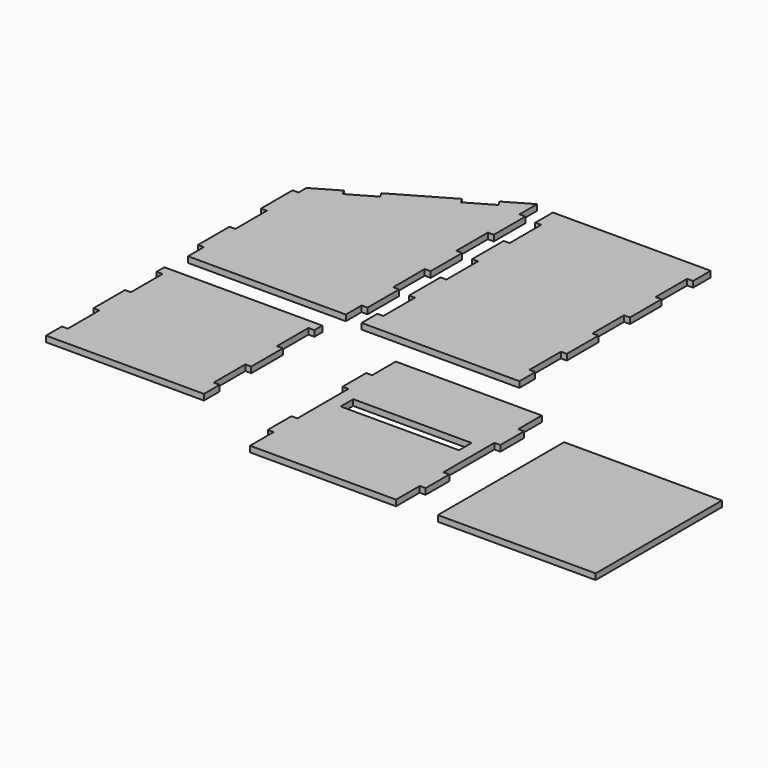
from build123d import *

# Parameters (mm, degrees)
F0_W     = 60
F0_H     = 8
F0_W_2   = 80
F0_H_2   = 80
F1_DEPTH = 3


with BuildPart() as f1:
    # F0 (on Top) → F1 (new body)
    with BuildSketch(Plane.XY):
        Polygon((-131.87333, 82.770537), (-144.863711, 75.270537), (-144.863711, 70.270537), (-147.863711, 70.270537), (-147.863711, 50.270537), (-144.863711, 50.270537), (-144.863711, 30.270537), (-147.863711, 30.270537), (-147.863711, 10.270537), (-144.863711, 10.270537), (-144.863711, 0.270537), (-64.863711, 0.270537), (-64.863711, 10.270537), (-61.863711, 10.270537), (-61.863711, 30.270537), (-64.863711, 30.270537), (-64.863711, 50.270537), (-61.863711, 50.270537), (-61.863711, 70.270537), (-64.863711, 70.270537), (-64.863711, 90.270537), (-61.863711, 90.270537), (-61.863711, 110.270537), (-64.863711, 110.270537), (-64.863711, 121.458559), (-77.854092, 113.958559), (-76.354092, 111.360483), (-89.344473, 103.860483), (-90.844473, 106.458559), (-118.882949, 90.270537), (-117.382949, 87.672461), (-130.37333, 80.172461), align=None)
        Polygon((24.48994, 119.776082), (-55.51006, 119.776082), (-55.51006, 108.58806), (-52.51006, 108.58806), (-52.51006, 88.58806), (-55.51006, 88.58806), (-55.51006, 68.58806), (-52.51006, 68.58806), (-52.51006, 48.58806), (-55.51006, 48.58806), (-55.51006, 28.58806), (-52.51006, 28.58806), (-52.51006, 8.58806), (-55.51006, 8.58806), (-55.51006, -1.41194), (24.48994, -1.41194), (24.48994, 8.58806), (21.48994, 8.58806), (21.48994, 28.58806), (24.48994, 28.58806), (24.48994, 48.58806), (21.48994, 48.58806), (21.48994, 68.58806), (24.48994, 68.58806), (24.48994, 88.58806), (21.48994, 88.58806), (21.48994, 108.58806), (24.48994, 108.58806), align=None)
        Polygon((-66.254191, -12.924335), (-146.254191, -12.924335), (-146.254191, -17.924335), (-143.254191, -17.924335), (-143.254191, -37.924335), (-146.254191, -37.924335), (-146.254191, -57.924335), (-143.254191, -57.924335), (-143.254191, -77.924335), (-146.254191, -77.924335), (-146.254191, -87.924335), (-66.254191, -87.924335), (-66.254191, -77.924335), (-69.254191, -77.924335), (-69.254191, -57.924335), (-66.254191, -57.924335), (-66.254191, -37.924335), (-69.254191, -37.924335), (-69.254191, -17.924335), (-66.254191, -17.924335), align=None)
        Polygon((49.751045, -18.834406), (-24.248955, -18.834406), (-24.248955, -33.834406), (-27.248955, -33.834406), (-27.248955, -48.834406), (-24.248955, -48.834406), (-24.248955, -81.210449), (-27.248955, -81.210449), (-27.248955, -96.210449), (-24.248955, -96.210449), (-24.248955, -111.210449), (49.751045, -111.210449), (49.751045, -96.210449), (52.751045, -96.210449), (52.751045, -81.210449), (49.751045, -81.210449), (49.751045, -48.834406), (52.751045, -48.834406), (52.751045, -33.834406), (49.751045, -33.834406), align=None)
        with Locations((12.751045, -58.559041)):
            Rectangle(F0_W, F0_H, mode=Mode.SUBTRACT)
        with Locations((110.945315, -71.193888)):
            Rectangle(F0_W_2, F0_H_2)
    extrude(amount=F1_DEPTH)


solid = f1.part
